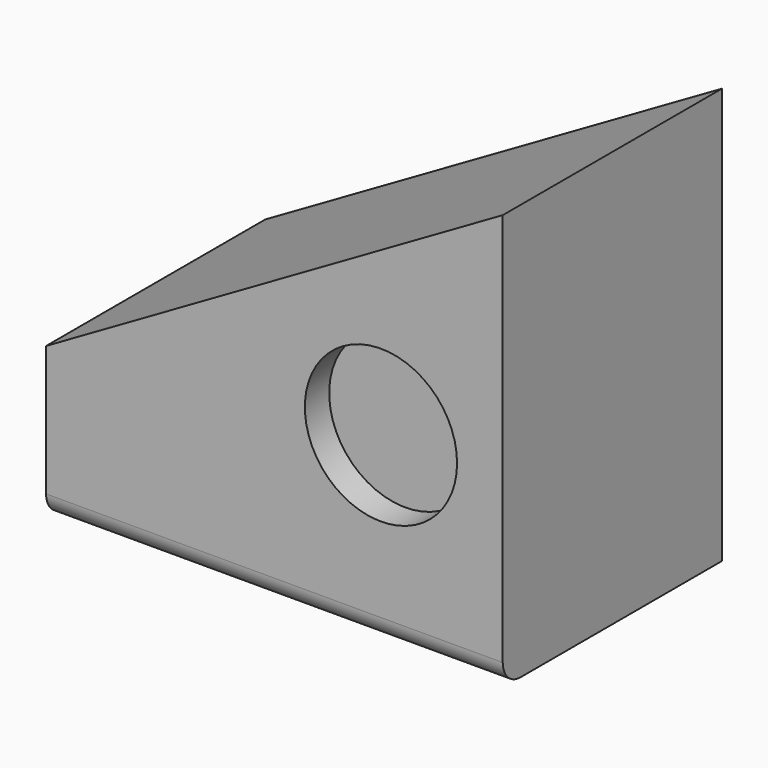
from build123d import *

# Parameters (mm, degrees)
F1_DEPTH = 50.8
F2_R     = 12.7
F3_DEPTH = 5.08
F4_SIZE  = 5.08
F5_R     = 3.679261


with BuildPart() as f1:
    # F0 (on Front) → F1 (new body)
    with BuildSketch(Plane.XZ):
        Polygon((0, 25.4), (0, 0), (76.2, 0), (76.2, 69.394091), align=None)
    extrude(amount=F1_DEPTH)

    # F2 (on face) → F3 (cut)
    with BuildSketch(Plane.XZ.offset(50.8)):
        with Locations((55.88, 30.48)):
            Circle(F2_R)
    extrude(amount=-F3_DEPTH, mode=Mode.SUBTRACT)

    # F4
    f4_edges = [f1.edges().sort_by_distance(p)[0] for p in [
        (0, 0, 12.7),
        (38.1, 0, 0),
        (76.2, 0, 34.697045),
        (38.1, 0, 47.397045),
    ]]
    chamfer(f4_edges, length=F4_SIZE)

    # F5
    f5_edges = [f1.edges().sort_by_distance(p)[0] for p in [
        (38.1, -50.8, 0),
    ]]
    fillet(f5_edges, radius=F5_R)


solid = f1.part
